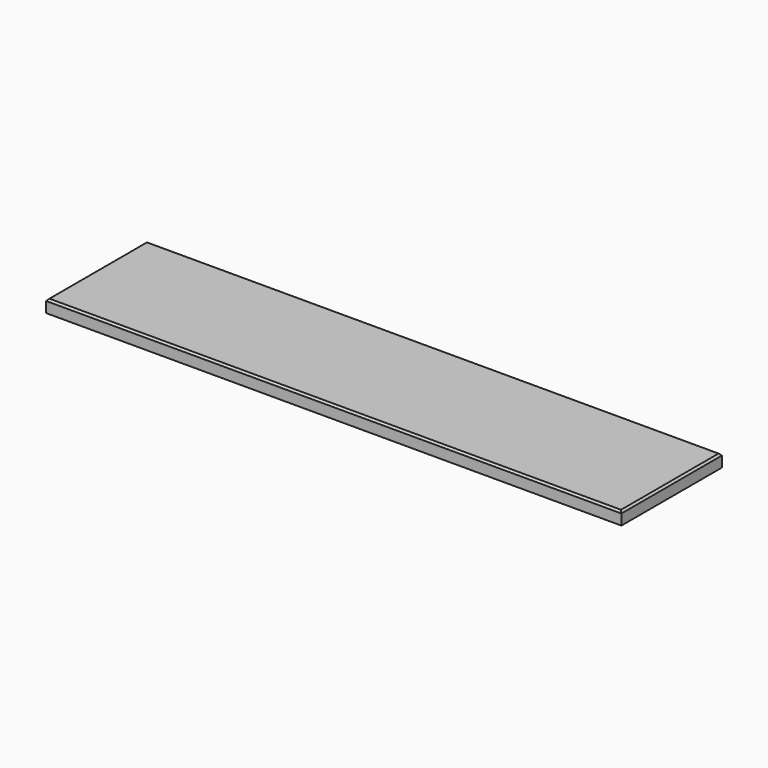
from build123d import *

# Parameters (mm, degrees)
F0_W     = 916
F0_H     = 200
F1_DEPTH = 20
F2_SIZE  = 3


with BuildPart() as f1:
    # F0 (on Top) → F1 (new body)
    with BuildSketch(Plane.XY):
        Rectangle(F0_W, F0_H)
    extrude(amount=F1_DEPTH)

    # F2
    f2_edges = [f1.edges().sort_by_distance(p)[0] for p in [
        (0, 100, 20),
        (-458, 0, 20),
        (0, -100, 20),
        (458, 0, 20),
    ]]
    chamfer(f2_edges, length=F2_SIZE)


solid = f1.part
